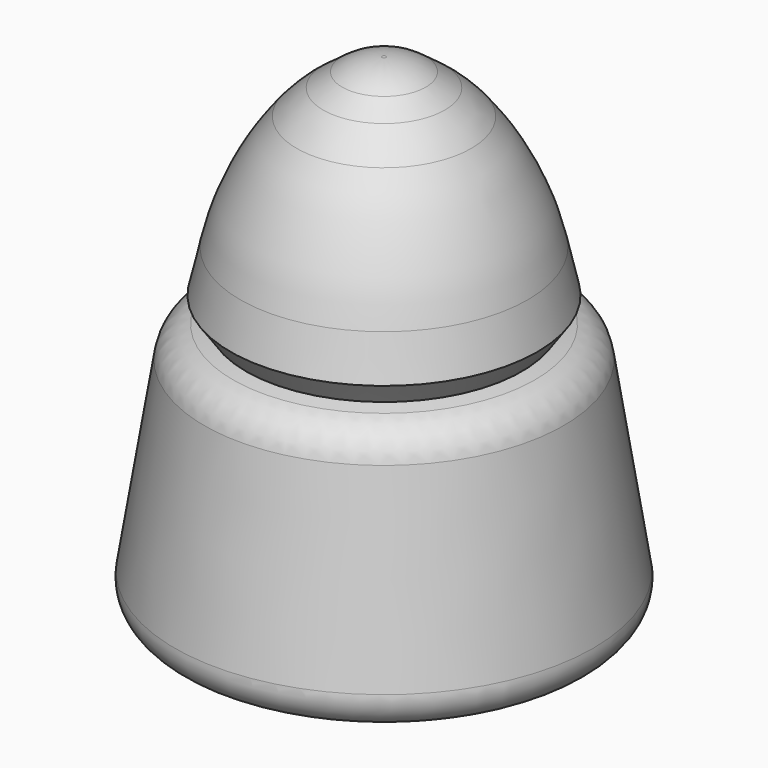
from build123d import *

# Parameters (mm, degrees)
F2_R = 12.599118
F3_R = 6.735102
F4_R = 3.026182
F5_R = 1.710135
F6_R = 1.408864


with BuildPart() as f1:
    # F0 (on Front) → F1 (revolve)
    with BuildSketch(Plane.XZ):
        Polygon((-9.7125, 0), (0, 0), (0, 22.078488), (-1.08705, 22.078488), (-3.406609, 20.364031), (-5.827018, 17.439371), (-6.936371, 12.598556), (-6.230419, 11.590051), (-7.944874, 11.18665), align=None)
    revolve(axis=Axis((0, 0, 11.039244), (0, 0, -1)))

    # F2
    f2_edges = [f1.edges().sort_by_distance(p)[0] for p in [
        (5.827018, 0, 17.439371),
    ]]
    fillet(f2_edges, radius=F2_R)

    # F3
    f3_edges = [f1.edges().sort_by_distance(p)[0] for p in [
        (3.406609, 0, 20.364031),
    ]]
    fillet(f3_edges, radius=F3_R)

    # F4
    f4_edges = [f1.edges().sort_by_distance(p)[0] for p in [
        (1.08705, 0, 22.078488),
    ]]
    fillet(f4_edges, radius=F4_R)

    # F5
    f5_edges = [f1.edges().sort_by_distance(p)[0] for p in [
        (7.944874, 0, 11.18665),
    ]]
    fillet(f5_edges, radius=F5_R)

    # F6
    f6_edges = [f1.edges().sort_by_distance(p)[0] for p in [
        (9.7125, 0, 0),
    ]]
    fillet(f6_edges, radius=F6_R)


solid = f1.part
